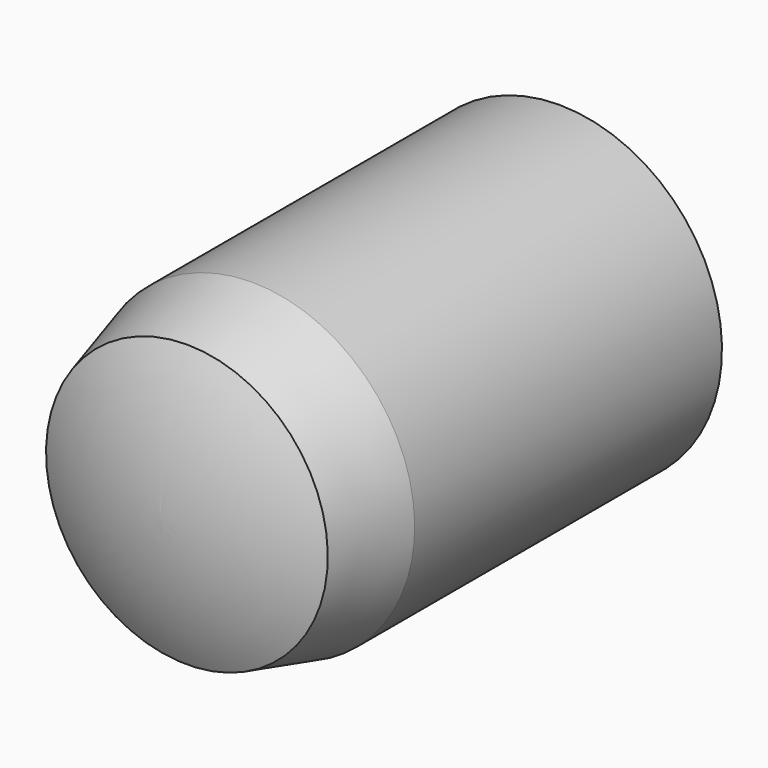
from build123d import *


with BuildPart() as part:
    # Sketch → Revolution (revolve)
    with BuildSketch(Plane.YZ):
        with BuildLine():
            ThreePointArc((0, 2.598076), (-0.448052, 1.333229), (-0.6, 0))
            Line((-0.6, 0), (9.4, 0))
            ThreePointArc((9.4, 0), (9.192457, 1.55445), (8.584366, 3))
            Line((1.5, 3), (8.584366, 3))
            Line((0, 2.598076), (1.5, 3))
        make_face()
    revolve(axis=Axis((0, 0, 0), (0, 1, 0)))


solid = part.part
